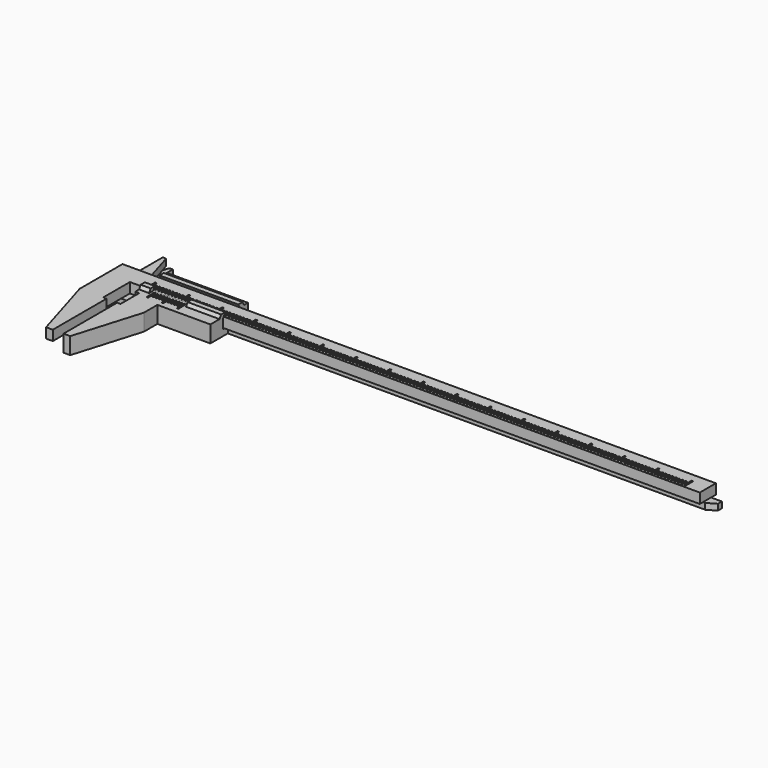
from build123d import *

# Parameters (mm, degrees)
PAD_DEPTH              = 3
POCKET_DEPTH           = 1
LINEARPATTERN_COUNT    = 161
LINEARPATTERN_PITCH    = 1
SKETCH003_W            = 0.5
SKETCH003_H            = 1
POCKET001_DEPTH        = 1
LINEARPATTERN001_COUNT = 17
LINEARPATTERN001_PITCH = 10
SKETCH004_W            = 6
SKETCH004_H            = 11
POCKET002_DEPTH        = 1
PAD001_DEPTH           = 5
POCKET003_DEPTH        = 3.2
PAD002_DEPTH           = 1.8
POCKET004_DEPTH        = 2
LINEARPATTERN002_COUNT = 11
LINEARPATTERN002_PITCH = 0.9
SKETCH009_W            = 0.5
SKETCH009_H            = 1
POCKET005_DEPTH        = 2
PAD003_DEPTH           = 24
SKETCH011_W            = 11
SKETCH011_H            = 7
POCKET006_DEPTH        = 5
SKETCH012_W            = 3.492019
SKETCH012_H            = 3.621672
POCKET007_DEPTH        = 2


with BuildPart() as main:
    # Sketch → Pad (new body)
    with BuildSketch(Plane.XY):
        Polygon((1, -30), (1, -10), (0, -10), (0, 0), (170, 0), (170, 6), (1, 6), (-2, 16), (-3, 16), (-3, 6), (-7, 6), (-7, -10), (-1, -30), align=None)
    extrude(amount=PAD_DEPTH)

    # Sketch002 → Pocket (cut)
    with BuildSketch(Plane.XY.offset(3)):
        Polygon((5.25, 1), (5.25, 2.5), (4.75, 2.5), (4.75, 1), (5, 0.5), align=None)
    pocket = extrude(amount=-POCKET_DEPTH, mode=Mode.SUBTRACT)

    # LinearPattern: Pocket ×161
    with Locations(*[(i * LINEARPATTERN_PITCH, 0, 0) for i in range(1, LINEARPATTERN_COUNT)]):
        add(pocket, mode=Mode.SUBTRACT)

    # Sketch003 → Pocket001 (cut)
    with BuildSketch(Plane.XY.offset(3)):
        with Locations((5, 3)):
            Rectangle(SKETCH003_W, SKETCH003_H)
    pocket001 = extrude(amount=-POCKET001_DEPTH, mode=Mode.SUBTRACT)

    # LinearPattern001: Pocket001 ×17
    with Locations(*[(i * LINEARPATTERN001_PITCH, 0, 0) for i in range(1, LINEARPATTERN001_COUNT)]):
        add(pocket001, mode=Mode.SUBTRACT)

    # Sketch004 → Pocket002 (cut)
    with BuildSketch(Plane.XY.offset(3)):
        with Locations((-1, 11.5)):
            Rectangle(SKETCH004_W, SKETCH004_H)
    extrude(amount=-POCKET002_DEPTH, mode=Mode.SUBTRACT)


with BuildPart() as slider:
    # Sketch005 → Pad001 (new body)
    with BuildSketch(Plane.XY):
        Polygon((0.2, -10), (0.2, -30), (2.2, -30), (8.2, -10), (8.2, -5), (24, -5), (24, 9), (-4, 9), (-4, 16), (-5, 16), (-8, 6), (-8, -3), (1.2, -3), (1.2, -10), align=None)
    extrude(amount=-PAD001_DEPTH)

    # Sketch006 → Pocket003 (cut)
    with BuildSketch(Plane.XY):
        Polygon((-9, 6.2), (-9, -3.8), (0, -3.8), (0, -0.2), (25, -0.2), (25, 6.2), (0.5, 6.2), (0.5, 17), (-9, 17), align=None)
    extrude(amount=-POCKET003_DEPTH, mode=Mode.SUBTRACT)

    # Sketch007 → Pad002 (join)
    with BuildSketch(Plane.XY.offset(-5)):
        Polygon((24, 1.5), (166.401924, 1.5), (169, 3), (169, 4.5), (24, 4.5), align=None)
    extrude(amount=PAD002_DEPTH)

    # Sketch008 → Pocket004 (cut)
    with BuildSketch(Plane.XY):
        Polygon((4, -0.5), (3.75, -1), (3.75, -2.5), (4.25, -2.5), (4.25, -1), align=None)
    pocket004 = extrude(amount=-POCKET004_DEPTH, mode=Mode.SUBTRACT)

    # LinearPattern002: Pocket004 ×11
    with Locations(*[(i * LINEARPATTERN002_PITCH, 0, 0) for i in range(1, LINEARPATTERN002_COUNT)]):
        add(pocket004, mode=Mode.SUBTRACT)

    # Sketch009 → Pocket005 (cut)
    with BuildSketch(Plane.XY):
        with Locations((4, -3)):
            Rectangle(SKETCH009_W, SKETCH009_H)
        with Locations((13, -3)):
            Rectangle(SKETCH009_W, SKETCH009_H)
        with Locations((8.5, -3)):
            Rectangle(SKETCH009_W, SKETCH009_H)
    extrude(amount=-POCKET005_DEPTH, mode=Mode.SUBTRACT)

    # Sketch010 → Pad003 (join)
    with BuildSketch(Plane(origin=(0, 0, 0), x_dir=(0, -1, 0), z_dir=(-1, 0, 0))):
        Polygon((-0.57735, 1), (0.2, -0.34641), (0.2, 0), (1.57735, 0), (1, 1), align=None)
    pad003 = extrude(amount=-PAD003_DEPTH)

    # Mirrored: Pad003 across Sketch010 Axis0
    add(pad003.mirror(Plane(origin=(0, 3, 0), x_dir=(-1, 0, 0), z_dir=(0, 1, 0))))

    # Sketch011 → Pocket006 (cut)
    with BuildSketch(Plane.XY):
        with Locations((8.5, -1.5)):
            Rectangle(SKETCH011_W, SKETCH011_H)
    extrude(amount=POCKET006_DEPTH, mode=Mode.SUBTRACT)

    # Sketch012 → Pocket007 (cut, symmetric)
    with BuildSketch(Plane.XY):
        with Locations((-1.253991, 6.189164)):
            Rectangle(SKETCH012_W, SKETCH012_H)
    extrude(amount=POCKET007_DEPTH, both=True, mode=Mode.SUBTRACT)


with BuildPart() as slider_1:
    # Body001 placement: moved
    add(slider.part.moved(Location((4, 0, 3))))


solid = Compound([main.part, slider_1.part])
